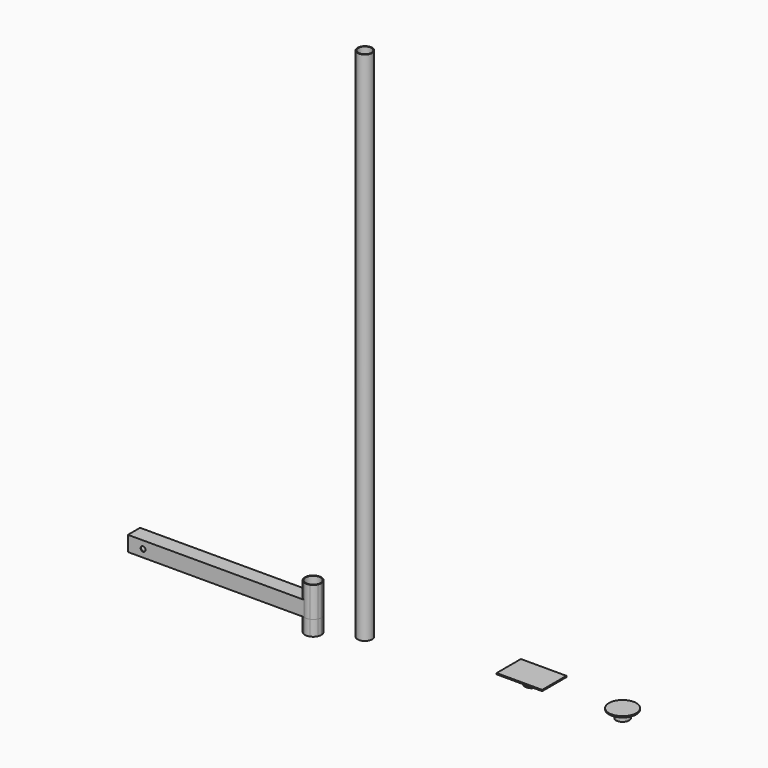
from build123d import *

# Parameters (mm, degrees)
F1_DEPTH      = 50
F2_R          = 8.15
F3_DEPTH      = 50.001
F4_DEPTH      = 100
F4_DEPTH_BACK = 50
F5_R          = 24.5
F6_DEPTH      = 150.001
F7_R          = 24
F8_DEPTH      = 1700
F9_R          = 21.5
F10_DEPTH     = 1750.001
F11_W         = 150
F11_H         = 100
F11_R         = 21.5
F12_DEPTH     = 4
F13_DEPTH     = 25
F14_R         = 20
F15_DEPTH     = 25
F17_W         = 150
F17_H         = 100
F17_R         = 45
F18_DEPTH     = 54.001
F19_W         = 46
F19_H         = 46
F20_DEPTH     = 1586.1490357498
F21_DEPTH     = 150.001


with BuildPart() as f1:
    # F0 (on Top) → F1 (new body)
    with BuildSketch(Plane.XY):
        with BuildLine():
            Line((500.2059729525, 37.515304536), (-79.5959880203, 37.515304536))
            Line((-79.5959880203, 37.515304536), (-79.5959880203, -12.484695464))
            Line((-79.5959880203, -12.484695464), (500.2059729525, -12.484695464))
            ThreePointArc((500.2059729525, -12.484695464), (483.4040119797, 12.515304536), (500.2059729525, 37.515304536))
        make_face()
    extrude(amount=F1_DEPTH)

    # F2 (on face) → F3 (cut, through all)
    with BuildSketch(Plane.XZ.offset(12.484695464)):
        with Locations((-29.5959880203, 25)):
            Circle(F2_R)
    extrude(amount=-F3_DEPTH, mode=Mode.SUBTRACT)

    # F19 (on face) → F20 (cut, through all)
    with BuildSketch(Plane(origin=(-79.5959880203, 0, 0), x_dir=(0, -1, 0), z_dir=(-1, 0, 0))):
        with Locations((-12.515304536, 25)):
            Rectangle(F19_W, F19_H)
    extrude(amount=-F20_DEPTH, mode=Mode.SUBTRACT)

    # F5 (on face) → F21 (cut, through all)
    with BuildSketch(Plane.XY.offset(100)):
        with Locations((510.4040119797, 12.515304536)):
            Circle(F5_R)
    extrude(amount=-F21_DEPTH, mode=Mode.SUBTRACT)


with BuildPart() as f4:
    # F0 (on Top) → F4 (new body, two sides)
    with BuildSketch(Plane.XY) as f4_sk:
        with BuildLine():
            Line((520.6020510069, 37.515304536), (500.2059729525, 37.515304536))
            ThreePointArc((500.2059729525, 37.515304536), (483.4040119797, 12.515304536), (500.2059729525, -12.484695464))
            Line((500.2059729525, -12.484695464), (520.6020510069, -12.484695464))
            ThreePointArc((520.6020510069, -12.484695464), (529.4958950717, -6.576578556), (535.4040119797, 2.3172655088))
            Line((535.4040119797, 2.3172655088), (535.4040119797, 22.7133435632))
            ThreePointArc((535.4040119797, 22.7133435632), (529.4958950717, 31.6071876281), (520.6020510069, 37.515304536))
        make_face()
        with BuildLine():
            Line((520.6020510069, -12.484695464), (500.2059729525, -12.484695464))
            ThreePointArc((500.2059729525, -12.484695464), (510.4040119797, -14.484695464), (520.6020510069, -12.484695464))
        make_face()
        with BuildLine():
            ThreePointArc((537.4040119797, 12.515304536), (536.8992945787, 17.7114569587), (535.4040119797, 22.7133435632))
            Line((535.4040119797, 22.7133435632), (535.4040119797, 2.3172655088))
            ThreePointArc((535.4040119797, 2.3172655088), (536.8992945787, 7.3191521133), (537.4040119797, 12.515304536))
        make_face()
        with BuildLine():
            ThreePointArc((520.6020510069, 37.515304536), (510.4040119797, 39.515304536), (500.2059729525, 37.515304536))
            Line((500.2059729525, 37.515304536), (520.6020510069, 37.515304536))
        make_face()
    extrude(amount=F4_DEPTH)
    extrude(f4_sk.sketch, amount=-F4_DEPTH_BACK)

    # F5 (on face) → F6 (cut, through all)
    with BuildSketch(Plane.XY.offset(100)):
        with Locations((510.4040119797, 12.515304536)):
            Circle(F5_R)
    extrude(amount=-F6_DEPTH, mode=Mode.SUBTRACT)


with BuildPart() as f8:
    # F7 (on Top) → F8 (new body)
    with BuildSketch(Plane.XY):
        with Locations((690.9877061844, 0)):
            Circle(F7_R)
    extrude(amount=F8_DEPTH)

    # F9 (on face) → F10 (cut, through all)
    with BuildSketch(Plane.XY.offset(1700)):
        with Locations((690.9877061844, 0)):
            Circle(F9_R)
    extrude(amount=-F10_DEPTH, mode=Mode.SUBTRACT)


with BuildPart() as f12:
    # F11 (on Top) → F12 (new body)
    with BuildSketch(Plane.XY):
        with Locations((1161.5520477295, 97.7113426873)):
            Rectangle(F11_W, F11_H)
        with Locations((1161.5520477295, 97.7113426873)):
            Circle(F11_R, mode=Mode.SUBTRACT)
        with Locations((1161.5520477295, 97.7113426873)):
            Circle(F11_R)
    extrude(amount=F12_DEPTH)

    # F11 (on Top) → F13 (join)
    with BuildSketch(Plane.XY):
        with Locations((1161.5520477295, 97.7113426873)):
            Circle(F11_R)
    extrude(amount=-F13_DEPTH)

    # F14 (on face) → F15 (cut)
    with BuildSketch(Plane(origin=(0, 0, -25), x_dir=(1, 0, 0), z_dir=(0, 0, -1))):
        with Locations((1161.5520477295, -97.7113426873)):
            Circle(F14_R)
    extrude(amount=-F15_DEPTH, mode=Mode.SUBTRACT)


with BuildPart() as f16_1:
    # F16: copy of F12
    add(f12.part.moved(Location((300, 0, 0))))

    # F17 (on face) → F18 (cut, through all)
    with BuildSketch(Plane.XY.offset(4)):
        with Locations((1461.5520477295, 97.7113426873)):
            Rectangle(F17_W, F17_H)
        with Locations((1461.5520477295, 97.7113426873)):
            Circle(F17_R, mode=Mode.SUBTRACT)
    extrude(amount=-F18_DEPTH, mode=Mode.SUBTRACT)


solid = Compound([f1.part, f4.part, f8.part, f12.part, f16_1.part])
